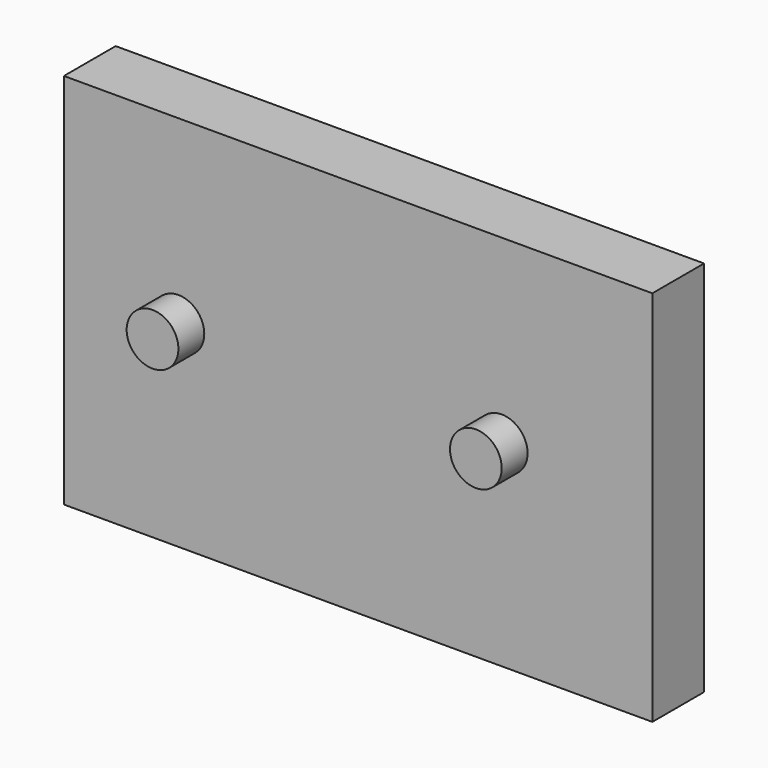
from build123d import *

# Parameters (mm, degrees)
F0_W     = 115.562398
F0_H     = 74.107583
F1_DEPTH = 12.7
F2_R     = 5.08
F3_DEPTH = 6.35


with BuildPart() as f1:
    # F0 (on Front) → F1 (new body)
    with BuildSketch(Plane.XZ):
        with Locations((3.549216, -1.419687)):
            Rectangle(F0_W, F0_H)
    extrude(amount=-F1_DEPTH)

    # F2 (on Front) → F3 (join)
    with BuildSketch(Plane.XZ):
        with Locations((-31.75, 0)):
            Circle(F2_R)
        with Locations((31.75, 0)):
            Circle(F2_R)
    extrude(amount=F3_DEPTH)


solid = f1.part
